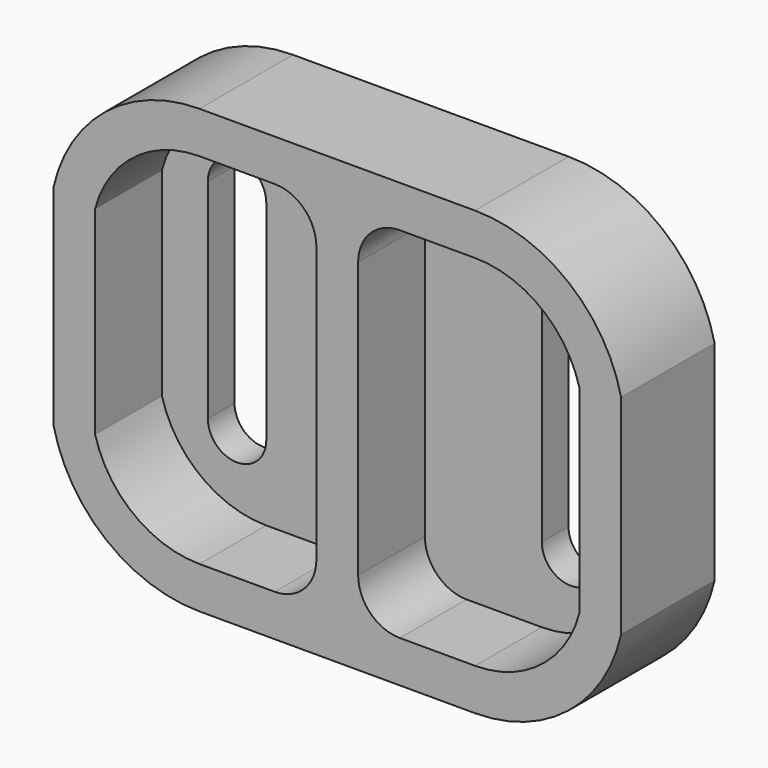
from build123d import *

# Parameters (mm, degrees)
F1_DEPTH = 17.78
F3_DEPTH = 12.7


with BuildPart() as f1:
    # F0 (on Front) → F1 (new body)
    with BuildSketch(Plane.XZ):
        with BuildLine():
            Line((-43.18, 33.655), (-43.18, 17.78))
            ThreePointArc((-43.18, 17.78), (-35.185944, 4.991945), (-20.955, 0))
            Line((-20.955, 0), (0, 0))
            Line((0, 0), (20.955, 0))
            ThreePointArc((20.955, 0), (35.185944, 4.991945), (43.18, 17.78))
            Line((43.18, 17.78), (43.18, 33.655))
            Line((43.18, 33.655), (43.18, 49.53))
            ThreePointArc((43.18, 49.53), (35.185944, 62.318055), (20.955, 67.31))
            Line((20.955, 67.31), (0, 67.31))
            Line((0, 67.31), (-20.955, 67.31))
            ThreePointArc((-20.955, 67.31), (-35.185944, 62.318055), (-43.18, 49.53))
            Line((-43.18, 49.53), (-43.18, 33.655))
        make_face()
        with BuildLine():
            Line((-20.955, 49.53), (-20.955, 17.78))
            ThreePointArc((-20.955, 17.78), (-25.4, 13.335), (-29.845, 17.78))
            Line((-29.845, 17.78), (-29.845, 49.53))
            ThreePointArc((-29.845, 49.53), (-25.4, 53.975), (-20.955, 49.53))
        make_face(mode=Mode.SUBTRACT)
        with BuildLine():
            Line((20.955, 17.78), (20.955, 49.53))
            ThreePointArc((20.955, 49.53), (25.4, 53.975), (29.845, 49.53))
            Line((29.845, 49.53), (29.845, 17.78))
            ThreePointArc((29.845, 17.78), (25.4, 13.335), (20.955, 17.78))
        make_face(mode=Mode.SUBTRACT)
    extrude(amount=F1_DEPTH)

    # F2 (on face) → F3 (cut)
    with BuildSketch(Plane.XZ.offset(17.78)):
        with BuildLine():
            ThreePointArc((-36.83, 18.543903), (-30.963832, 9.750325), (-20.955, 6.35))
            Line((-20.955, 6.35), (-9.525, 6.35))
            ThreePointArc((-9.525, 6.35), (-5.034872, 8.209872), (-3.175, 12.7))
            Line((-3.175, 12.7), (-3.175, 54.61))
            ThreePointArc((-3.175, 54.61), (-5.034872, 59.100128), (-9.525, 60.96))
            Line((-9.525, 60.96), (-20.955, 60.96))
            ThreePointArc((-20.955, 60.96), (-30.963832, 57.559675), (-36.83, 48.766097))
            Line((-36.83, 48.766097), (-36.83, 18.543903))
        make_face()
        with BuildLine():
            Line((20.955, 60.96), (9.525, 60.96))
            ThreePointArc((9.525, 60.96), (5.034872, 59.100128), (3.175, 54.61))
            Line((3.175, 54.61), (3.175, 12.7))
            ThreePointArc((3.175, 12.7), (5.034872, 8.209872), (9.525, 6.35))
            Line((9.525, 6.35), (20.955, 6.35))
            ThreePointArc((20.955, 6.35), (30.963832, 9.750325), (36.83, 18.543903))
            Line((36.83, 18.543903), (36.83, 48.766097))
            ThreePointArc((36.83, 48.766097), (30.963832, 57.559675), (20.955, 60.96))
        make_face()
    extrude(amount=-F3_DEPTH, mode=Mode.SUBTRACT)


solid = f1.part
